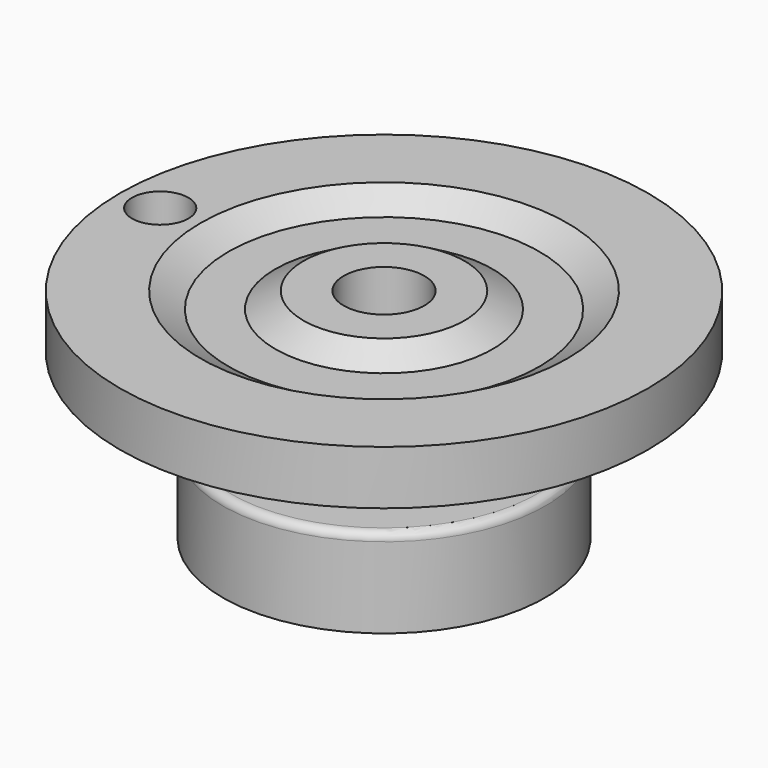
from build123d import *

# Parameters (mm, degrees)
F2_R     = 0.635
F4_D     = 6.35
F6_D     = 4.445
F7_D     = 2.7051
F7_DEPTH = 20.79725


with BuildPart() as f1:
    # F0 (on Front) → F1 (revolve)
    with BuildSketch(Plane.XZ):
        Polygon((-12.7, 0), (0, 0), (0, 17.145), (-6.35, 17.145), (-8.5497045256, 15.875), (-12.2465454744, 15.875), (-14.44625, 17.145), (-20.79625, 17.145), (-20.79625, 12.8905), (-7.9375, 12.8905), (-7.9375, 6.985), (-12.7, 6.985), align=None)
    revolve(axis=Axis((0, 0, 8.5725), (0, 0, -1)))

    # F2
    f2_edges = [f1.edges().sort_by_distance(p)[0] for p in [
        (12.7, 0, 6.985),
    ]]
    fillet(f2_edges, radius=F2_R)

    # F4 (through all)
    with Locations(Plane.XY.offset(17.145)):
        with Locations((0, 0)):
            Hole(F4_D / 2)

    # F6 (through all)
    with Locations(Plane.XY.offset(17.145)):
        with Locations((-17.62125, 0)):
            Hole(F6_D / 2)

    # F7 (through all, one way)
    with BuildSketch(Plane.XZ):
        with Locations((0, 10)):
            Circle(F7_D / 2)
    extrude(amount=-F7_DEPTH, mode=Mode.SUBTRACT)


solid = f1.part
